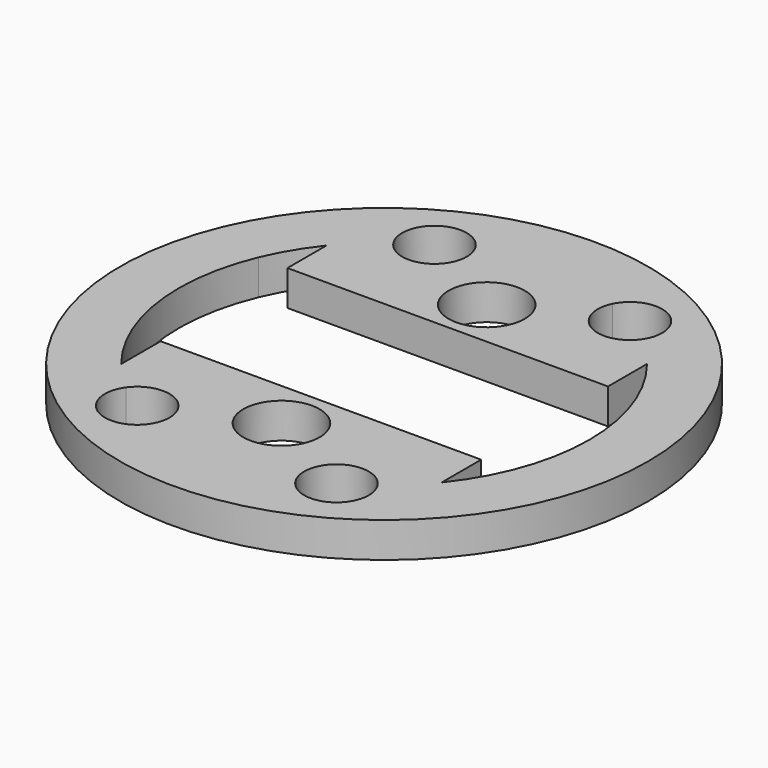
from build123d import *

# Parameters (mm, degrees)
F0_R     = 45
F0_R_2   = 3
F1_DEPTH = 6
F2_DEPTH = 6
F3_DEPTH = 6
F4_R     = 3.7046824746
F4_R_2   = 3.6592764752
F4_R_3   = 3.6139160681
F4_R_4   = 3.8159810343
F5_DEPTH = 2
F6_DEPTH = 2


with BuildPart() as f1:
    # F0 (on Top) → F1 (new body)
    with BuildSketch(Plane.XY):
        with Locations((0.0959349175, -0.0479674588)):
            Circle(F0_R)
        with Locations((0.0959349175, -39.9090653906)):
            Circle(F0_R_2, mode=Mode.SUBTRACT)
        with Locations((-40.0529677669, -0.0479674588)):
            Circle(F0_R_2, mode=Mode.SUBTRACT)
        with BuildLine():
            ThreePointArc((27.4207573821, 21.8233397102), (33.1214461646, 11.5414935671), (35.0959349175, -0.0479674588))
            ThreePointArc((35.0959349175, -0.0479674588), (33.1214461646, -11.6374284846), (27.4207573821, -21.9192746278))
            ThreePointArc((27.4207573821, -21.9192746278), (24.533111856, -25.104391451), (21.2767449211, -27.9114433294))
            ThreePointArc((21.2767449211, -27.9114433294), (21.9273327718, -29.335683713), (22.1502168829, -30.8855378658))
            ThreePointArc((22.1502168829, -30.8855378658), (17.7806491067, -36.268113735), (11.6148994329, -33.0981332147))
            ThreePointArc((11.6148994329, -33.0981332147), (-0.8185531736, -35.0360184409), (-13.1337970765, -32.4512727125))
            ThreePointArc((-13.1337970765, -32.4512727125), (-20.8976351843, -34.6820549215), (-22.5115050489, -26.7669430784))
            ThreePointArc((-22.5115050489, -26.7669430784), (-24.9875791947, -24.4573369668), (-27.228887547, -21.9192746278))
            ThreePointArc((-27.228887547, -21.9192746278), (-34.5685439732, -4.8826239339), (-32.1705090074, 13.512143029))
            ThreePointArc((-32.1705090074, 13.512143029), (-29.9880933208, 17.8392135644), (-27.228887547, 21.8233397102))
            ThreePointArc((-27.228887547, 21.8233397102), (-24.2059494655, 25.1396964948), (-20.7835404411, 28.042022017))
            ThreePointArc((-20.7835404411, 28.042022017), (-18.6742910421, 35.8397549184), (-11.0663916751, 33.1243472787))
            ThreePointArc((-11.0663916751, 33.1243472787), (1.0160924151, 34.9399348816), (12.9864428976, 32.4917744581))
            ThreePointArc((12.9864428976, 32.4917744581), (19.1675795097, 35.4283855992), (23.4248644926, 30.0706193309))
            ThreePointArc((23.4248644926, 30.0706193309), (23.1684252605, 28.4107788343), (22.4230206839, 26.9057195095))
            ThreePointArc((22.4230206839, 26.9057195095), (25.0516084979, 24.4920886975), (27.4207573821, 21.8233397102))
        make_face(mode=Mode.SUBTRACT)
        with Locations((39.6692280968, -0.0479674588)):
            Circle(F0_R_2, mode=Mode.SUBTRACT)
        with Locations((0.0959349175, 40.1009352257)):
            Circle(F0_R_2, mode=Mode.SUBTRACT)
        with BuildLine():
            ThreePointArc((21.2767449211, -27.9114433294), (24.533111856, -25.104391451), (27.4207573821, -21.9192746278))
            Line((27.4207573821, -21.9192746278), (6.5959349175, -21.9192746278))
            ThreePointArc((6.5959349175, -21.9192746278), (0.0959349175, -28.4192746278), (-6.4040650825, -21.9192746278))
            Line((-6.4040650825, -21.9192746278), (-27.228887547, -21.9192746278))
            ThreePointArc((-27.228887547, -21.9192746278), (-24.9875791947, -24.4573369668), (-22.5115050489, -26.7669430784))
            ThreePointArc((-22.5115050489, -26.7669430784), (-16.3594497928, -24.7438409966), (-12.5466565285, -29.9786603278))
            ThreePointArc((-12.5466565285, -29.9786603278), (-12.6954544679, -31.2493438081), (-13.1337970765, -32.4512727125))
            ThreePointArc((-13.1337970765, -32.4512727125), (-0.8185531736, -35.0360184409), (11.6148994329, -33.0981332147))
            ThreePointArc((11.6148994329, -33.0981332147), (14.0488297169, -26.0396339447), (21.2767449211, -27.9114433294))
        make_face()
        with BuildLine():
            Line((6.5959349175, 21.8233397102), (27.4207573821, 21.8233397102))
            ThreePointArc((27.4207573821, 21.8233397102), (25.0516084979, 24.4920886975), (22.4230206839, 26.9057195095))
            ThreePointArc((22.4230206839, 26.9057195095), (15.1231755594, 25.3376985497), (12.9864428976, 32.4917744581))
            ThreePointArc((12.9864428976, 32.4917744581), (1.0160924151, 34.9399348816), (-11.0663916751, 33.1243472787))
            ThreePointArc((-11.0663916751, 33.1243472787), (-10.7366623963, 32.0675422609), (-10.6252480106, 30.966113608))
            ThreePointArc((-10.6252480106, 30.966113608), (-14.6038355694, 25.6807277012), (-20.7835404411, 28.042022017))
            ThreePointArc((-20.7835404411, 28.042022017), (-24.2059494655, 25.1396964948), (-27.228887547, 21.8233397102))
            Line((-27.228887547, 21.8233397102), (-6.4040650825, 21.8233397102))
            ThreePointArc((-6.4040650825, 21.8233397102), (0.0959349175, 28.3233397102), (6.5959349175, 21.8233397102))
        make_face()
    extrude(amount=F1_DEPTH)

    # F0 (on Top) → F2 (join)
    with BuildSketch(Plane.XY):
        with BuildLine():
            Line((27.4207573821, 13.512143029), (27.4207573821, 21.8233397102))
            Line((27.4207573821, 21.8233397102), (6.5959349175, 21.8233397102))
            ThreePointArc((6.5959349175, 21.8233397102), (0.0959349175, 15.3233397102), (-6.4040650825, 21.8233397102))
            Line((-6.4040650825, 21.8233397102), (-27.228887547, 21.8233397102))
            Line((-27.228887547, 21.8233397102), (-27.228887547, 13.512143029))
            Line((-27.228887547, 13.512143029), (27.4207573821, 13.512143029))
        make_face()
    extrude(amount=F2_DEPTH)

    # F0 (on Top) → F3 (join)
    with BuildSketch(Plane.XY):
        with BuildLine():
            Line((6.5959349175, -21.9192746278), (27.4207573821, -21.9192746278))
            Line((27.4207573821, -21.9192746278), (27.4207573821, -13.512143029))
            Line((27.4207573821, -13.512143029), (-27.228887547, -13.512143029))
            Line((-27.228887547, -13.512143029), (-27.228887547, -21.9192746278))
            Line((-27.228887547, -21.9192746278), (-6.4040650825, -21.9192746278))
            ThreePointArc((-6.4040650825, -21.9192746278), (0.0959349175, -15.4192746278), (6.5959349175, -21.9192746278))
        make_face()
    extrude(amount=F3_DEPTH)

    # F4 (on face) → F5 (join)
    with BuildSketch(Plane.XY.offset(6)):
        with Locations((-40.0529677669, -0.0479674588)):
            Circle(F4_R)
        with Locations((0.0959349175, 40.1009352257)):
            Circle(F4_R_2)
        with Locations((39.6692280968, -0.0479674588)):
            Circle(F4_R_3)
        with Locations((0.0959349175, -39.9090653906)):
            Circle(F4_R_4)
    extrude(amount=-F5_DEPTH)

    # F4 (on face) → F6 (join)
    with BuildSketch(Plane.XY.offset(6)):
        with Locations((-40.0529677669, -0.0479674588)):
            Circle(F4_R)
        with Locations((0.0959349175, 40.1009352257)):
            Circle(F4_R_2)
        with Locations((39.6692280968, -0.0479674588)):
            Circle(F4_R_3)
        with Locations((0.0959349175, -39.9090653906)):
            Circle(F4_R_4)
    extrude(amount=-F6_DEPTH)


solid = f1.part
